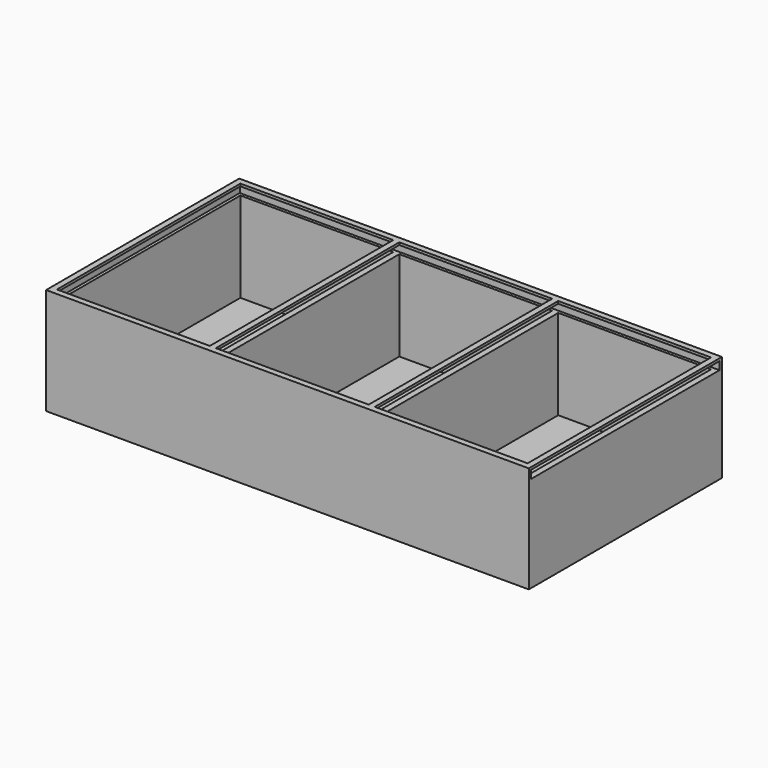
from build123d import *

# Parameters (mm, degrees)
F0_W     = 120
F0_H     = 60
F1_DEPTH = 1.5
F2_DEPTH = 25
F4_DEPTH = 119.25


with BuildPart() as f1:
    # F0 (on Top) → F1 (new body)
    with BuildSketch(Plane.XY):
        with Locations((-60, -30)):
            Rectangle(F0_W, F0_H)
        Polygon((-118.5, -58.5), (-118.5, -30), (-118.5, -1.5), (-80.5, -1.5), (-80.5, -58.5), align=None, mode=Mode.SUBTRACT)
        Polygon((-41, -58.5), (-60, -58.5), (-79, -58.5), (-79, -1.5), (-60, -1.5), (-41, -1.5), align=None, mode=Mode.SUBTRACT)
        Polygon((-1.5, -1.5), (-1.5, -30), (-1.5, -58.5), (-39.5, -58.5), (-39.5, -1.5), align=None, mode=Mode.SUBTRACT)
        Polygon((-118.5, -1.5), (-118.5, -30), (-118.5, -58.5), (-80.5, -58.5), (-80.5, -1.5), align=None)
        Polygon((-79, -58.5), (-60, -58.5), (-41, -58.5), (-41, -1.5), (-60, -1.5), (-79, -1.5), align=None)
        Polygon((-1.5, -58.5), (-1.5, -30), (-1.5, -1.5), (-39.5, -1.5), (-39.5, -58.5), align=None)
    extrude(amount=-F1_DEPTH)

    # F0 (on Top) → F2 (join)
    with BuildSketch(Plane.XY):
        with Locations((-60, -30)):
            Rectangle(F0_W, F0_H)
        Polygon((-118.5, -58.5), (-118.5, -30), (-118.5, -1.5), (-80.5, -1.5), (-80.5, -58.5), align=None, mode=Mode.SUBTRACT)
        Polygon((-41, -58.5), (-60, -58.5), (-79, -58.5), (-79, -1.5), (-60, -1.5), (-41, -1.5), align=None, mode=Mode.SUBTRACT)
        Polygon((-1.5, -1.5), (-1.5, -30), (-1.5, -58.5), (-39.5, -58.5), (-39.5, -1.5), align=None, mode=Mode.SUBTRACT)
    extrude(amount=F2_DEPTH)

    # F3 (on Right) → F4 (cut)
    with BuildSketch(Plane.YZ):
        Polygon((-0.75, 23.390348), (-0.75, 24.390348), (-59.25, 24.390348), (-59.25, 23.390348), (-59.25, 22.390348), (-0.75, 22.390348), align=None)
    extrude(amount=-F4_DEPTH, mode=Mode.SUBTRACT)


solid = f1.part
